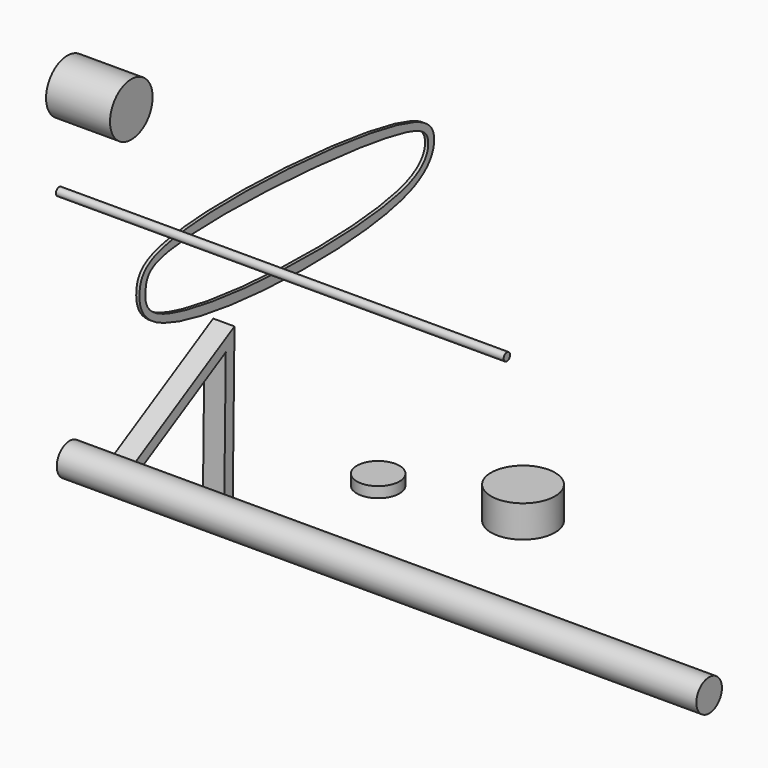
from build123d import *

# Parameters (mm, degrees)
F1_DEPTH  = 50.8
F2_R      = 38.1
F3_DEPTH  = 1524
F4_R      = 50.8
F5_DEPTH  = 25.4
F6_R      = 76.2
F7_DEPTH  = 76.2
F9_DEPTH  = 7.62
F10_R     = 63.5
F11_DEPTH = 152.4
F12_R     = 9.525
F13_DEPTH = 1066.8


with BuildPart() as f1:
    # F0 (on Right) → F1 (new body)
    with BuildSketch(Plane.YZ):
        Polygon((115.7364128716, 199.7322355401), (-229.9369479617, 6.6420814406), (110.1207111258, -196.1747534029), align=None)
        Polygon((89.7150008287, 156.102817537), (85.3472328042, -151.8248405298), (-179.1420575972, 5.9215865706), align=None, mode=Mode.SUBTRACT)
    extrude(amount=F1_DEPTH)


with BuildPart() as f3:
    # F2 (on Right) → F3 (new body)
    with BuildSketch(Plane.YZ):
        with Locations((-312.0565116405, 78.9133012295)):
            Circle(F2_R)
    extrude(amount=F3_DEPTH)


with BuildPart() as f5:
    # F4 (on Top) → F5 (new body)
    with BuildSketch(Plane.XY):
        with Locations((420.800358057, 81.1618492007)):
            Circle(F4_R)
    extrude(amount=F5_DEPTH)


with BuildPart() as f7:
    # F6 (on face) → F7 (new body)
    with BuildSketch(Plane.XY.offset(25.4)):
        with Locations((750.0976920128, 100.9990423918)):
            Circle(F6_R)
    extrude(amount=F7_DEPTH)


with BuildPart() as f9:
    # F8 (on Right) → F9 (new body)
    with BuildSketch(Plane.YZ):
        with BuildLine():
            add(Edge.make_bspline(
                [(-113.2260560989, 348.6704528332), (-111.5986476453, 374.7194313417), (-71.8248650959, 465.2150575871), (703.1871731765, 416.6763077226), (779.7119729021, 320.6996757141), (710.9603337595, 169.38478396), (-84.100889713, 201.4618641577), (-115.0118234063, 320.0867164593), (-113.2260560989, 348.6704528332)],
                knots=[0, 0, 0, 0, 0.0986187818, 0.3884566695, 0.4911301447, 0.6023942495, 0.8917848829, 1, 1, 1, 1], degree=3))
        make_face()
        with BuildLine():
            add(Edge.make_bspline(
                [(-95.0410962105, 348.6704528332), (-97.3984842573, 328.2190584594), (-96.86978092, 228.8935596604), (708.6561650669, 190.9179800331), (757.697965788, 321.1197253157), (695.9624369612, 390.6313177774), (-73.6096009289, 440.7201414771), (-92.8641521055, 367.5564154051), (-95.0410962105, 348.6704528332)],
                knots=[0, 0, 0, 0, 0.0953655653, 0.4036646806, 0.5089109387, 0.6050863181, 0.9119340978, 1, 1, 1, 1], degree=3))
        make_face(mode=Mode.SUBTRACT)
    extrude(amount=F9_DEPTH)


with BuildPart() as f11:
    # F10 (on face) → F11 (new body)
    with BuildSketch(Plane.YZ):
        with Locations((-128.0791014433, 737.4552488327)):
            Circle(F10_R)
    extrude(amount=-F11_DEPTH)


with BuildPart() as f13:
    # F12 (on face) → F13 (new body)
    with BuildSketch(Plane.YZ):
        with Locations((-343.0615365505, 652.8494358063)):
            Circle(F12_R)
    extrude(amount=F13_DEPTH)


solid = Compound([f1.part, f3.part, f5.part, f7.part, f9.part, f11.part, f13.part])
